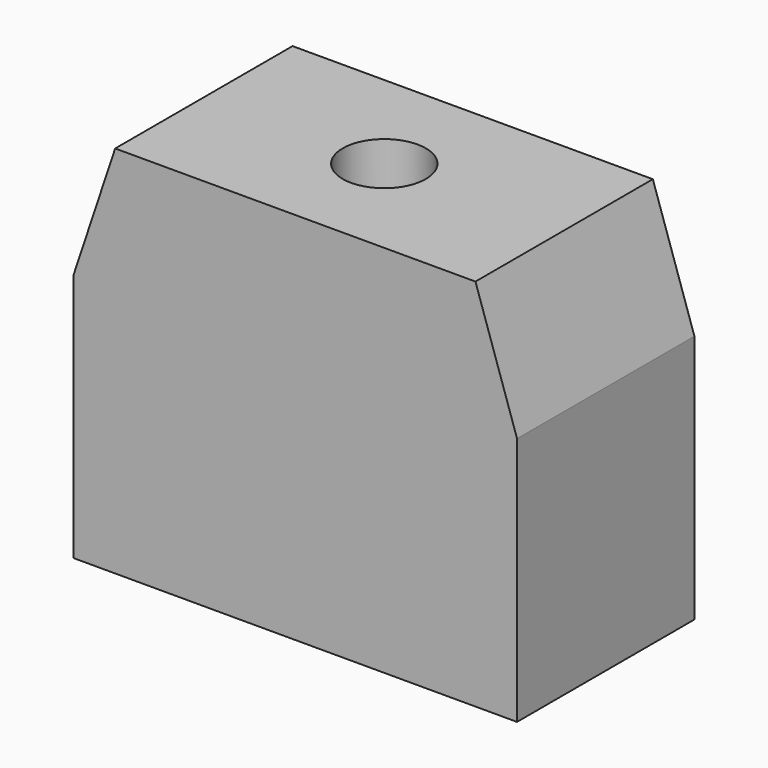
from build123d import *

# Parameters (mm, degrees)
F1_DEPTH = 8
F3_D     = 3
F3_DEPTH = 20


with BuildPart() as f1:
    # F0 (on Front) → F1 (new body)
    with BuildSketch(Plane.XZ):
        Polygon((-8, 9), (-8, 0), (-2, 0), (2, 0), (8, 0), (8, 9), (6.5, 13.5), (-6.5, 13.5), align=None)
    extrude(amount=F1_DEPTH)

    # F3
    with Locations(Plane.XY.offset(13.5)):
        with Locations((0, -3.985928)):
            Hole(F3_D / 2, depth=F3_DEPTH)


solid = f1.part
